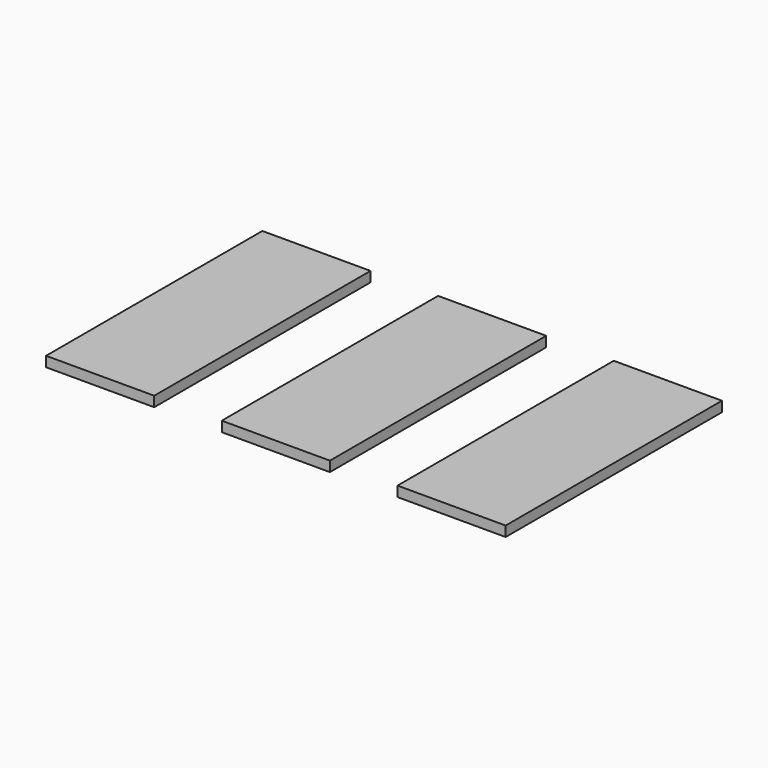
from build123d import *

# Parameters (mm, degrees)
F0_W     = 16
F0_H     = 40
F1_DEPTH = 1.5
F2_DEPTH = 1.5
F3_DEPTH = 1.5


with BuildPart() as f1:
    # F0 (on Top) → F1 (new body)
    with BuildSketch(Plane.XY):
        with Locations((-26, 0)):
            Rectangle(F0_W, F0_H)
    extrude(amount=F1_DEPTH)


with BuildPart() as f2:
    # F0 (on Top) → F2 (new body)
    with BuildSketch(Plane.XY):
        Rectangle(F0_W, F0_H)
    extrude(amount=F2_DEPTH)


with BuildPart() as f3:
    # F0 (on Top) → F3 (new body)
    with BuildSketch(Plane.XY):
        with Locations((26, 0)):
            Rectangle(F0_W, F0_H)
    extrude(amount=F3_DEPTH)


solid = Compound([f1.part, f2.part, f3.part])
